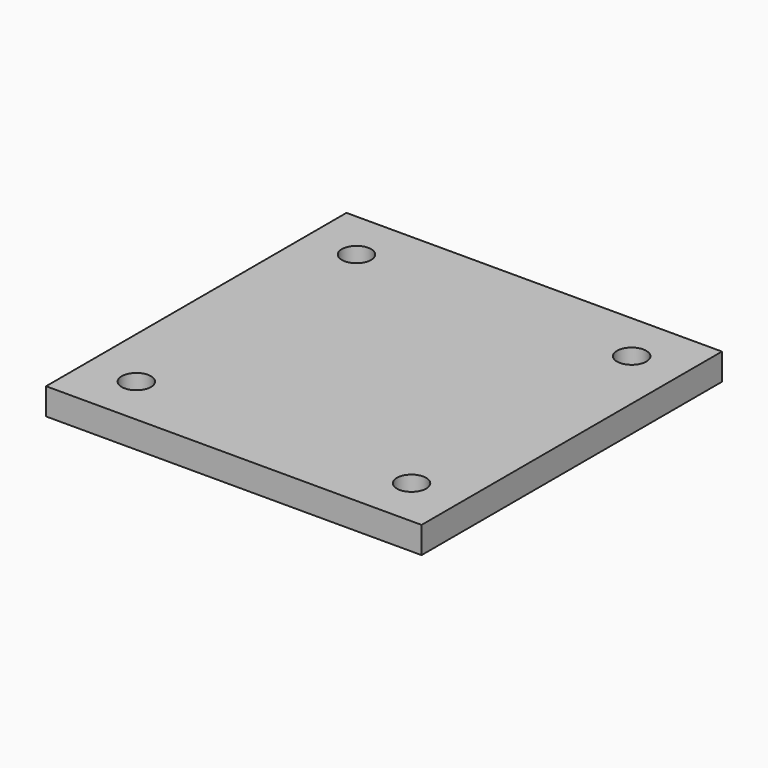
from build123d import *

# Parameters (mm, degrees)
F0_W     = 42.3
F0_H     = 42.3
F1_DEPTH = 3
F2_D     = 3.3


with BuildPart() as f1:
    # F0 (on Top) → F1 (new body)
    with BuildSketch(Plane.XY):
        Rectangle(F0_W, F0_H)
    extrude(amount=F1_DEPTH)

    # F2 (through all)
    with Locations(Plane(origin=(0, 0, 0), x_dir=(1, 0, 0), z_dir=(0, 0, -1))):
        with Locations((15.5, 15.5), (15.5, -15.5), (-15.5, -15.5), (-15.5, 15.5)):
            Hole(F2_D / 2)


solid = f1.part
